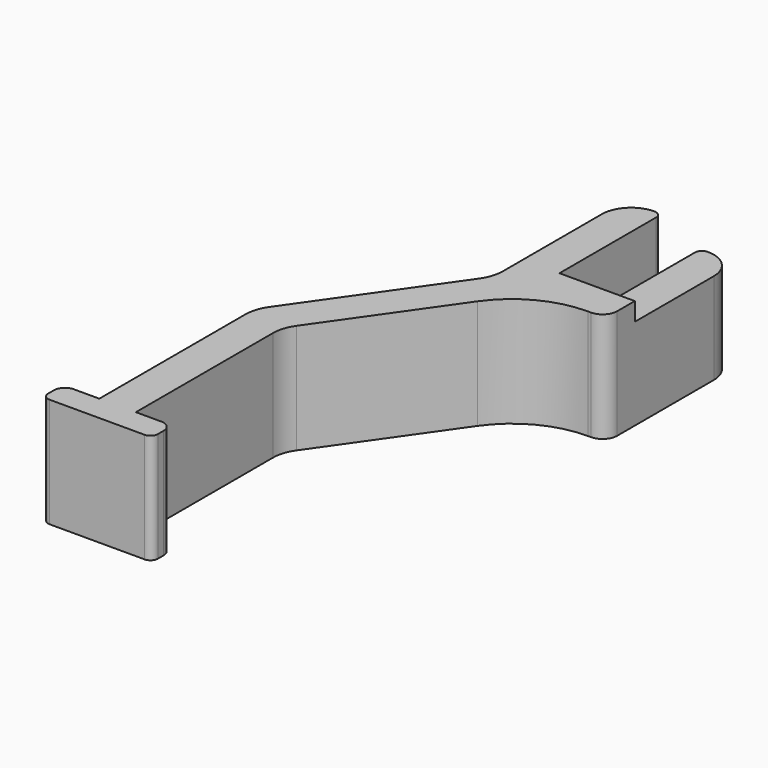
from build123d import *

# Parameters (mm, degrees)
F1_DEPTH = 15
F4_W     = 17.5
F4_H     = 2.5
F5_DEPTH = 5.7


with BuildPart() as f1:
    # F0 (on Top) → F1 (new body)
    with BuildSketch(Plane.XY):
        with BuildLine():
            Line((0, 16.5), (0, 0))
            Line((0, 0), (-5.3, 0))
            Line((-5.3, 0), (-5.3, 16.5))
            ThreePointArc((-5.3, 16.5), (-5.592893, 17.207107), (-6.3, 17.5))
            ThreePointArc((-6.3, 17.5), (-9.128427, 16.328427), (-10.3, 13.5))
            Line((-10.3, 13.5), (-10.3, -3))
            ThreePointArc((-10.3, -3), (-9.714214, -4.414214), (-8.3, -5))
            Line((-8.3, -5), (-7.871245, -5))
            ThreePointArc((-7.871245, -5), (-1.868513, -6.468859), (2.777732, -10.543506))
            Line((2.777732, -10.543506), (14.339411, -27.055295))
            ThreePointArc((14.339411, -27.055295), (15.012235, -28.419648), (15.243651, -29.923177))
            Line((15.243651, -29.923177), (15.243651, -53.346683))
            Line((15.243651, -53.346683), (11.743651, -53.346683))
            ThreePointArc((11.743651, -53.346683), (10.682991, -53.786023), (10.243651, -54.846683))
            Line((10.243651, -54.846683), (10.243651, -55.846683))
            ThreePointArc((10.243651, -55.846683), (10.536544, -56.55379), (11.243651, -56.846683))
            Line((11.243651, -56.846683), (24.243651, -56.846683))
            ThreePointArc((24.243651, -56.846683), (24.950757, -56.55379), (25.243651, -55.846683))
            Line((25.243651, -55.846683), (25.243651, -54.846683))
            ThreePointArc((25.243651, -54.846683), (24.804311, -53.786023), (23.743651, -53.346683))
            Line((23.743651, -53.346683), (20.243651, -53.346683))
            Line((20.243651, -53.346683), (20.243651, -28.346683))
            ThreePointArc((20.243651, -28.346683), (20.012235, -26.843154), (19.339411, -25.478801))
            Line((19.339411, -25.478801), (5.90424, -6.291388))
            ThreePointArc((5.90424, -6.291388), (5.231415, -4.927035), (5, -3.423506))
            Line((5, -3.423506), (5, 13.5))
            ThreePointArc((5, 13.5), (3.828427, 16.328427), (1, 17.5))
            ThreePointArc((1, 17.5), (0.292893, 17.207107), (0, 16.5))
        make_face()
    extrude(amount=F1_DEPTH)


with BuildPart() as f2_1:
    # F2: instance of F1
    add(f1.part.mirror(Plane(origin=(-10.3, 5.25, 7.5), x_dir=(0, -1, 0), z_dir=(-1, 0, 0))))

    # F4 (on face) → F5 (cut)
    with BuildSketch(Plane.YZ.offset(-10.3)):
        with Locations((8.75, 13.75)):
            Rectangle(F4_W, F4_H)
    extrude(amount=-F5_DEPTH, mode=Mode.SUBTRACT)


solid = f2_1.part
